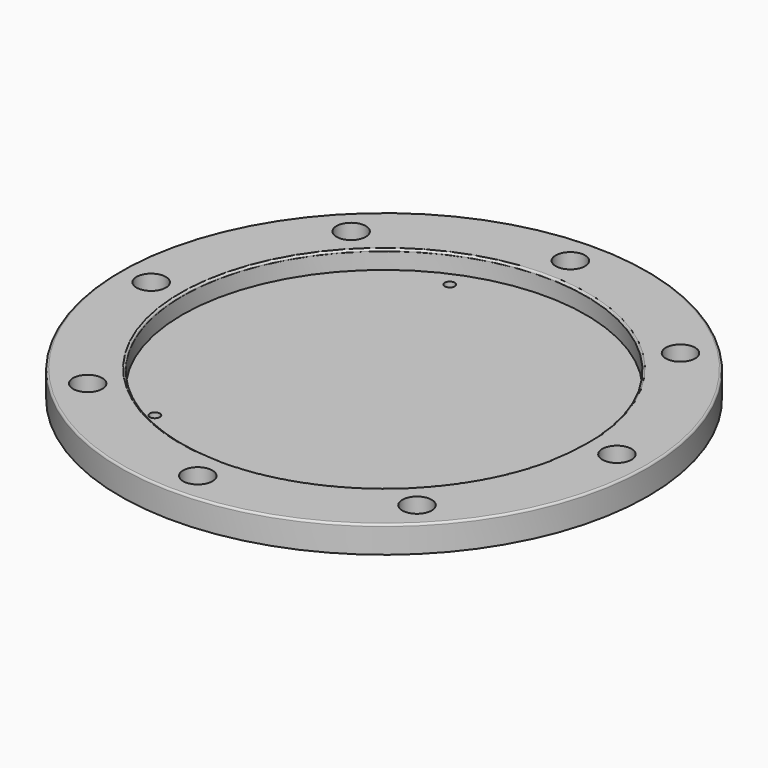
from build123d import *

# Parameters (mm, degrees)
F2_R     = 76.454
F3_DEPTH = 6.35
F4_R     = 5.55625
F5_DEPTH = 10.161
F6_R     = 1.905
F7_DEPTH = 3.176


with BuildPart() as f1:
    # F0 (on Front) → F1 (revolve)
    with BuildSketch(Plane.XZ):
        with BuildLine():
            Line((0, 9.525), (0, 0))
            Line((0, 0), (100, 0))
            Line((100, 0), (100, 9.398))
            ThreePointArc((100, 9.398), (99.7768153673, 9.9368153673), (99.238, 10.16))
            Line((99.238, 10.16), (77.216, 10.16))
            ThreePointArc((77.216, 10.16), (76.6771846327, 9.9368153673), (76.454, 9.398))
            Line((76.454, 9.398), (76.454, 9.525))
            Line((76.454, 9.525), (0, 9.525))
        make_face()
    revolve(axis=Axis((0, 0, 85.8672061428), (0, 0, -1)))

    # F2 (on face) → F3 (cut)
    with BuildSketch(Plane.XY.offset(9.525)):
        Circle(F2_R)
    extrude(amount=-F3_DEPTH, mode=Mode.SUBTRACT)

    # F4 (on face) → F5 (cut, through all)
    with BuildSketch(Plane.XY.offset(10.16)):
        with Locations((0, 88.227)):
            Circle(F4_R)
        with Locations((-62.3859099837, 62.3859099837)):
            Circle(F4_R)
        with Locations((-88.227, 0)):
            Circle(F4_R)
        with Locations((-62.3859099837, -62.3859099837)):
            Circle(F4_R)
        with Locations((0, -88.227)):
            Circle(F4_R)
        with Locations((62.3859099837, -62.3859099837)):
            Circle(F4_R)
        with Locations((88.227, 0)):
            Circle(F4_R)
        with Locations((62.3859099837, 62.3859099837)):
            Circle(F4_R)
    extrude(amount=-F5_DEPTH, mode=Mode.SUBTRACT)

    # F6 (on face) → F7 (cut, through all)
    with BuildSketch(Plane.XY.offset(3.175)):
        with Locations((-26.7304377507, 64.5329853459)):
            Circle(F6_R)
        with Locations((-42.5219858163, -55.4157308193)):
            Circle(F6_R)
        with Locations((69.252423567, -9.1172545266)):
            Circle(F6_R)
    extrude(amount=-F7_DEPTH, mode=Mode.SUBTRACT)


solid = f1.part
